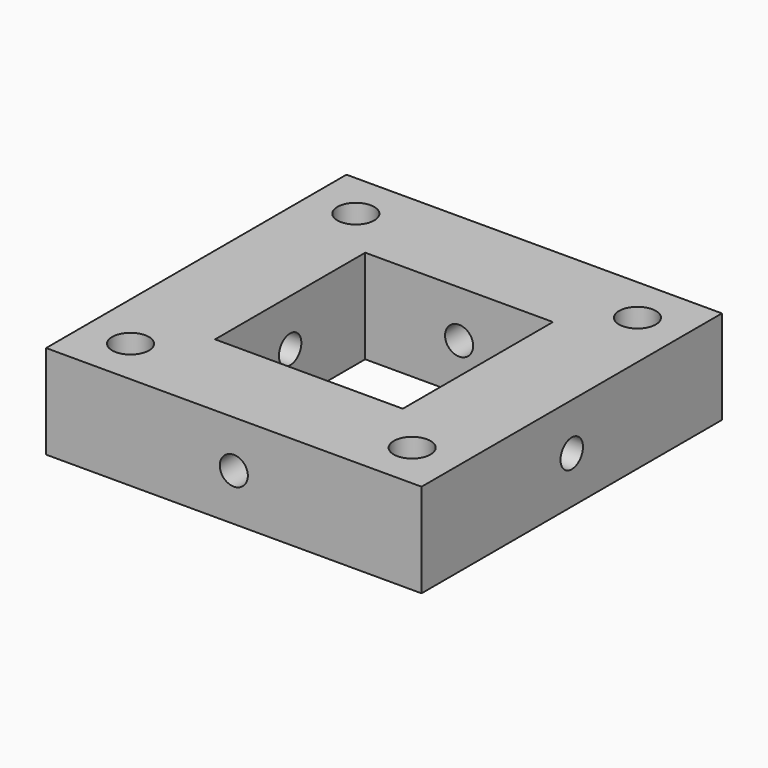
from build123d import *

# Parameters (mm, degrees)
F0_W          = 50.8
F0_H          = 50.8
F1_DEPTH      = 6.35
F1_DEPTH_BACK = 6.35
F2_W          = 25.4
F2_H          = 25.4
F3_DEPTH      = 113.7438993901
F4_D          = 4.9784
F7_D          = 3.7973
F7_ON_F5_D    = 3.7973


with BuildPart() as f1:
    # F0 (on Top) → F1 (new body, two sides)
    with BuildSketch(Plane.XY) as f1_sk:
        with Locations((25.4, 25.4)):
            Rectangle(F0_W, F0_H)
    extrude(amount=F1_DEPTH)
    extrude(f1_sk.sketch, amount=-F1_DEPTH_BACK)

    # F2 (on face) → F3 (cut)
    with BuildSketch(Plane.XY.offset(6.35)):
        with Locations((25.4, 25.4)):
            Rectangle(F2_W, F2_H)
    extrude(amount=-F3_DEPTH, mode=Mode.SUBTRACT)

    # F4 (through all)
    with Locations(Plane.XY.offset(6.35)):
        with Locations((44.45, 44.45), (6.35, 44.45), (6.35, 6.35), (44.45, 6.35)):
            Hole(F4_D / 2)

    # F7 (through all)
    with Locations(Plane.XZ):
        with Locations((25.4, 0)):
            Hole(F7_D / 2)

    # F7 on F5 (through all)
    with Locations(Plane(origin=(0, 0, 0), x_dir=(0, -1, 0), z_dir=(-1, 0, 0))):
        with Locations((-25.4, 0)):
            Hole(F7_ON_F5_D / 2)


solid = f1.part
